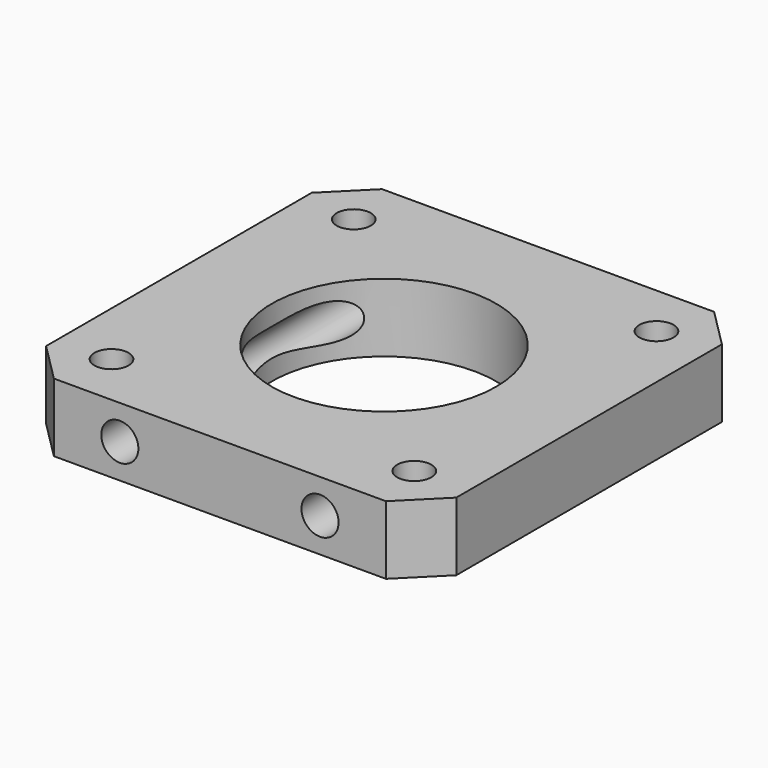
from build123d import *

# Parameters (mm, degrees)
SKETCH_W        = 42
SKETCH_H        = 42
PAD_DEPTH       = 7
SKETCH001_R     = 11.5
POCKET_DEPTH    = 12
SKETCH002_R     = 1.75
POCKET001_DEPTH = 12
SKETCH003_R     = 1.9
POCKET002_DEPTH = 42
CHAMFER_SIZE    = 4


with BuildPart() as part:
    # Sketch → Pad (new body)
    with BuildSketch(Plane.XY):
        Rectangle(SKETCH_W, SKETCH_H)
    extrude(amount=PAD_DEPTH)

    # Sketch001 (on Face6 of Pad) → Pocket (cut)
    with BuildSketch(Plane.XY.offset(7)):
        Circle(SKETCH001_R)
    extrude(amount=-POCKET_DEPTH, mode=Mode.SUBTRACT)

    # Sketch002 (on Face5 of Pocket) → Pocket001 (cut)
    with BuildSketch(Plane.XY.offset(7)):
        with Locations((15.5, 15.5)):
            Circle(SKETCH002_R)
        with Locations((-15.5, 15.5)):
            Circle(SKETCH002_R)
        with Locations((-15.5, -15.5)):
            Circle(SKETCH002_R)
        with Locations((15.5, -15.5)):
            Circle(SKETCH002_R)
    extrude(amount=-POCKET001_DEPTH, mode=Mode.SUBTRACT)

    # Sketch003 (on Face1 of Pocket001) → Pocket002 (cut)
    with BuildSketch(Plane.XZ.offset(21)):
        with Locations((-10.25, 3.5)):
            Circle(SKETCH003_R)
        with Locations((10.25, 3.5)):
            Circle(SKETCH003_R)
    extrude(amount=-POCKET002_DEPTH, mode=Mode.SUBTRACT)

    # Chamfer
    chamfer_edges = [part.edges().sort_by_distance(p)[0] for p in [
        (-21, -21, 3.5),
        (21, -21, 3.5),
        (21, 21, 3.5),
        (-21, 21, 3.5),
    ]]
    chamfer(chamfer_edges, length=CHAMFER_SIZE)


solid = part.part
